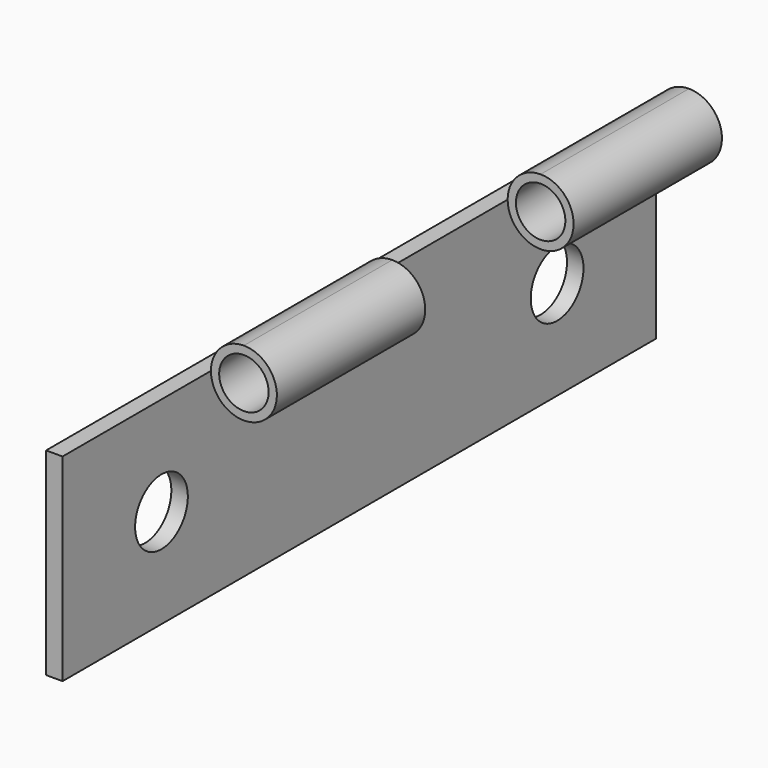
from build123d import *

# Parameters (mm, degrees)
SKETCH002_W            = 45
SKETCH002_H            = 12
SKETCH002_R            = 2
PAD002_DEPTH           = 1
SKETCH003_R            = 2
SKETCH003_R_2          = 1.5
PAD003_DEPTH           = 11.25
LINEARPATTERN001_COUNT = 2
LINEARPATTERN001_PITCH = 22.5


with BuildPart() as part:
    # Sketch002 → Pad002 (new body)
    with BuildSketch(Plane.YZ):
        with Locations((172.5, -6)):
            Rectangle(SKETCH002_W, SKETCH002_H)
        with Locations((157.5, -6)):
            Circle(SKETCH002_R, mode=Mode.SUBTRACT)
        with Locations((187.5, -6)):
            Circle(SKETCH002_R, mode=Mode.SUBTRACT)
    extrude(amount=PAD002_DEPTH)

    # Sketch003 (on Face2 of Pad002) → Pad003 (join)
    with BuildSketch(Plane.ZX.offset(195)):
        with Locations((0, 3)):
            Circle(SKETCH003_R)
        with Locations((0, 3)):
            Circle(SKETCH003_R_2, mode=Mode.SUBTRACT)
    pad003 = extrude(amount=-PAD003_DEPTH)

    # LinearPattern001: Pad003 ×2
    with Locations(*[(0, -i * LINEARPATTERN001_PITCH, 0) for i in range(1, LINEARPATTERN001_COUNT)]):
        add(pad003)


solid = part.part
